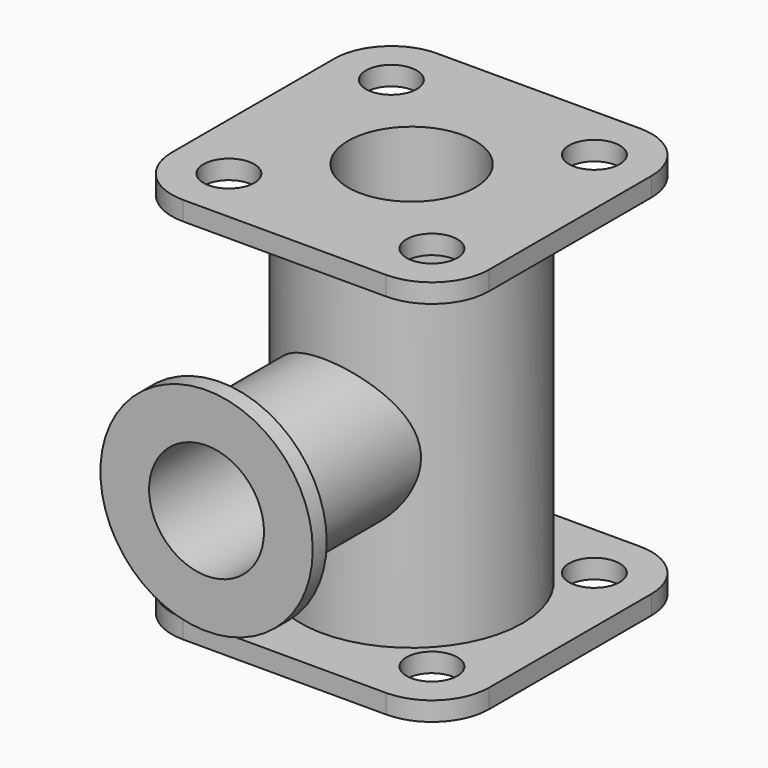
from build123d import *

# Parameters (mm, degrees)
F0_W           = 127
F0_H           = 127
F1_DEPTH       = 7.62
F2_R           = 44.45
F3_DEPTH       = 139.7
F4_R           = 22.86
F6_R           = 10.16
F7_DEPTH       = 25.4
F9_R           = 25.4
F10_DEPTH      = 154.941
F12_R          = 30
F13_DEPTH      = 19.05
F13_DEPTH_BACK = 51.16455
F14_R          = 42.5
F14_R_2        = 30
F15_DEPTH      = 7
F16_R          = 23
F17_DEPTH      = 91.3994


with BuildPart() as f1:
    # F0 (on Top) → F1 (new body)
    with BuildSketch(Plane.XY):
        Rectangle(F0_W, F0_H)
    extrude(amount=F1_DEPTH)

    # F2 (on face) → F3 (join)
    with BuildSketch(Plane.XY.offset(7.62)):
        Circle(F2_R)
    extrude(amount=F3_DEPTH)

    # F4
    f4_edges = [f1.edges().sort_by_distance(p)[0] for p in [
        (63.5, -63.5, 3.81),
        (63.5, 63.5, 3.81),
        (-63.5, -63.5, 3.81),
        (-63.5, 63.5, 3.81),
    ]]
    fillet(f4_edges, radius=F4_R)

    # F6 (on face) → F7 (cut)
    with BuildSketch(Plane(origin=(0, 0, 0), x_dir=(1, 0, 0), z_dir=(0, 0, -1))):
        with Locations((40.64, -40.64)):
            Circle(F6_R)
        with Locations((-40.64, -40.64)):
            Circle(F6_R)
        with Locations((40.64, 40.64)):
            Circle(F6_R)
        with Locations((-40.64, 40.64)):
            Circle(F6_R)
    extrude(amount=-F7_DEPTH, mode=Mode.SUBTRACT)

    # F8: F1 across plane


with BuildPart() as f1_1:
    add(f1.part)
    add(f1.part.mirror(Plane.XY.offset(77.47)))

    # F9 (on face) → F10 (cut, through all)
    with BuildSketch(Plane(origin=(0, 0, 0), x_dir=(1, 0, 0), z_dir=(0, 0, -1))):
        Circle(F9_R)
    extrude(amount=-F10_DEPTH, mode=Mode.SUBTRACT)

    # F12 (on offset) → F13 (join, two sides)
    with BuildSketch(Plane.XZ.offset(44.45)) as f13_sk:
        with Locations((0, 74.5208350375)):
            Circle(F12_R)
    extrude(amount=-F13_DEPTH)
    extrude(f13_sk.sketch, amount=F13_DEPTH_BACK)

    # F14 (on face) → F15 (join)
    with BuildSketch(Plane.XZ.offset(95.61455)):
        with Locations((0, 74.5208350375)):
            Circle(F14_R)
        with Locations((0, 74.5208350375)):
            Circle(F14_R_2, mode=Mode.SUBTRACT)
        with Locations((0, 74.5208350375)):
            Circle(F14_R_2)
    extrude(amount=F15_DEPTH)

    # F16 (on face) → F17 (cut)
    with BuildSketch(Plane.XZ.offset(102.61455)):
        with Locations((0, 74.5208350375)):
            Circle(F16_R)
    extrude(amount=-F17_DEPTH, mode=Mode.SUBTRACT)


solid = f1_1.part
